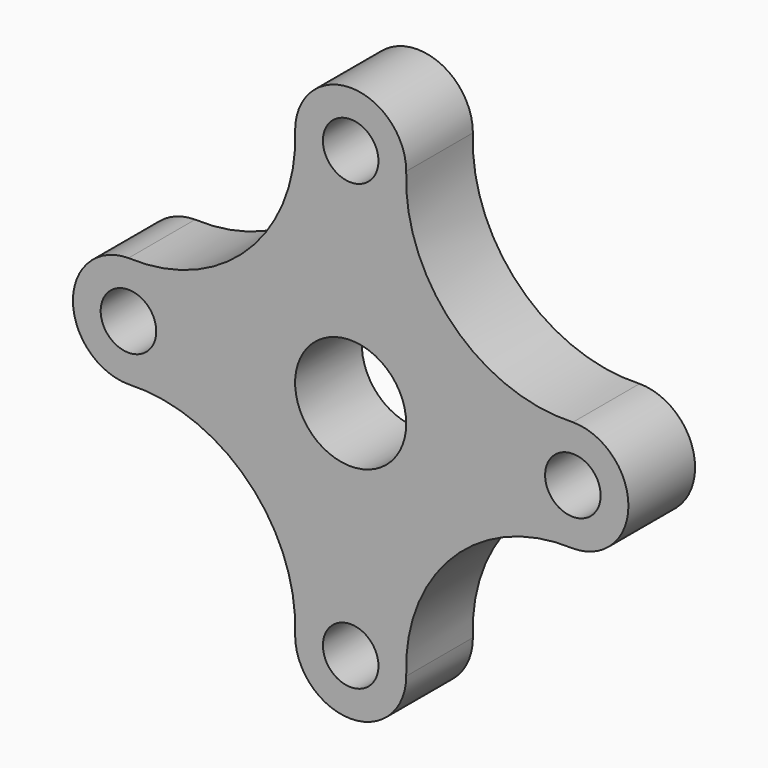
from build123d import *

# Parameters (mm, degrees)
F0_R     = 6.35
F0_R_2   = 12.7
F1_DEPTH = 19.05


with BuildPart() as f1:
    # F0 (on Front) → F1 (new body)
    with BuildSketch(Plane.XZ):
        with BuildLine():
            ThreePointArc((50.8, 12.7), (23.379701, 23.379701), (12.7, 50.8))
            ThreePointArc((12.7, 50.8), (0, 63.5), (-12.7, 50.8))
            ThreePointArc((-12.7, 50.8), (-23.379701, 23.379701), (-50.8, 12.7))
            ThreePointArc((-50.8, 12.7), (-63.5, 0), (-50.8, -12.7))
            ThreePointArc((-50.8, -12.7), (-23.379701, -23.379701), (-12.7, -50.8))
            ThreePointArc((-12.7, -50.8), (0, -63.5), (12.7, -50.8))
            ThreePointArc((12.7, -50.8), (23.379701, -23.379701), (50.8, -12.7))
            ThreePointArc((50.8, -12.7), (63.5, 0), (50.8, 12.7))
        make_face()
        with Locations((0, -50.8)):
            Circle(F0_R, mode=Mode.SUBTRACT)
        with Locations((-50.8, 0)):
            Circle(F0_R, mode=Mode.SUBTRACT)
        Circle(F0_R_2, mode=Mode.SUBTRACT)
        with Locations((50.8, 0)):
            Circle(F0_R, mode=Mode.SUBTRACT)
        with Locations((0, 50.8)):
            Circle(F0_R, mode=Mode.SUBTRACT)
    extrude(amount=F1_DEPTH)


solid = f1.part
